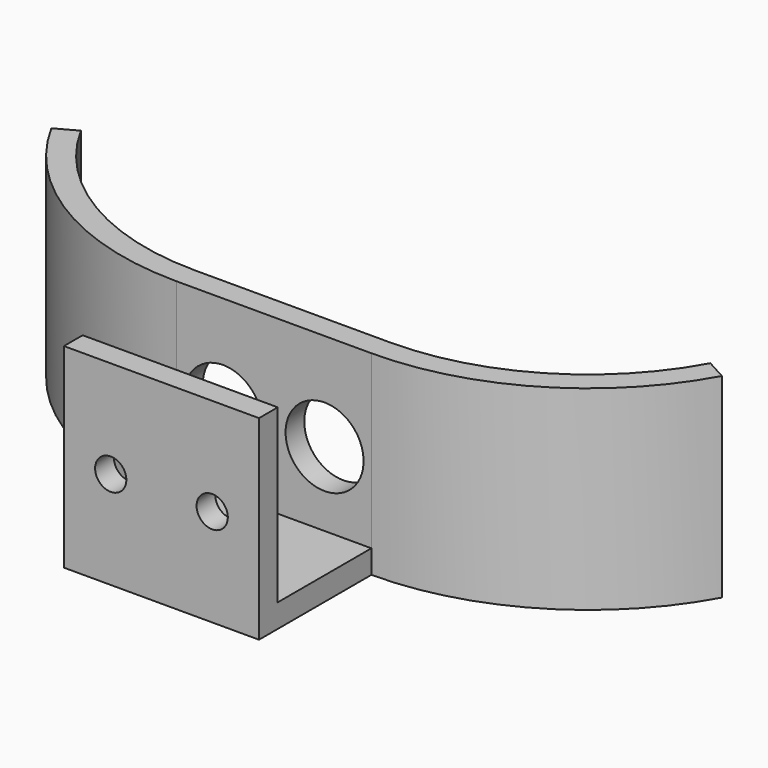
from build123d import *

# Parameters (mm, degrees)
F1_DEPTH = 25
F0_W     = 25
F0_H     = 3
F0_H_2   = 15
F2_DEPTH = 3
F3_R     = 2
F4_DEPTH = 25
F3_R_2   = 5
F5_DEPTH = 10


with BuildPart() as f1:
    # F0 (on Top) → F1 (new body)
    with BuildSketch(Plane.XY):
        with BuildLine():
            ThreePointArc((-51.955607151, 33.064927277), (-39.2002565409, 19.8557934078), (-21.4914605021, 15))
            Line((-21.4914605021, 15), (3.5085394979, 15))
            ThreePointArc((3.5085394979, 15), (21.2173355366, 19.8557934078), (33.9726861467, 33.064927277))
            Line((33.9726861467, 33.064927277), (31.3403677316, 34.5039893887))
            ThreePointArc((31.3403677316, 34.5039893887), (19.687169914, 22.4362184053), (3.5085394979, 18))
            Line((3.5085394979, 18), (-21.4914605021, 18))
            ThreePointArc((-21.4914605021, 18), (-37.6700909183, 22.4362184053), (-49.3232887359, 34.5039893887))
            Line((-49.3232887359, 34.5039893887), (-51.955607151, 33.064927277))
        make_face()
    extrude(amount=F1_DEPTH)



with BuildPart() as f1b:
    # F0 (on Top) → F1, piece 2 (new body)
    with BuildSketch(Plane.XY):
        with Locations((-8.9914605021, -1.5)):
            Rectangle(F0_W, F0_H)
    extrude(amount=F1_DEPTH)


with BuildPart() as f1_1:
    add(f1.part)

    add(f1b.part)  # F2 merges F1b
    # F0 (on Top) → F2 (join)
    with BuildSketch(Plane.XY):
        with Locations((-8.9914605021, 7.5)):
            Rectangle(F0_W, F0_H_2)
    extrude(amount=F2_DEPTH)

    # F3 (on face) → F4 (cut)
    with BuildSketch(Plane(origin=(0, 18, 0), x_dir=(-1, 0, 0), z_dir=(0, 1, 0))):
        with Locations((15.4914605021, 12.5)):
            Circle(F3_R)
        with Locations((2.4914605021, 12.5)):
            Circle(F3_R)
    extrude(amount=-F4_DEPTH, mode=Mode.SUBTRACT)

    # F3 (on face) → F5 (cut)
    with BuildSketch(Plane(origin=(0, 18, 0), x_dir=(-1, 0, 0), z_dir=(0, 1, 0))):
        with Locations((15.4914605021, 12.5)):
            Circle(F3_R_2)
        with Locations((15.4914605021, 12.5)):
            Circle(F3_R, mode=Mode.SUBTRACT)
        with Locations((2.4914605021, 12.5)):
            Circle(F3_R_2)
        with Locations((2.4914605021, 12.5)):
            Circle(F3_R, mode=Mode.SUBTRACT)
    extrude(amount=-F5_DEPTH, mode=Mode.SUBTRACT)


solid = f1_1.part
